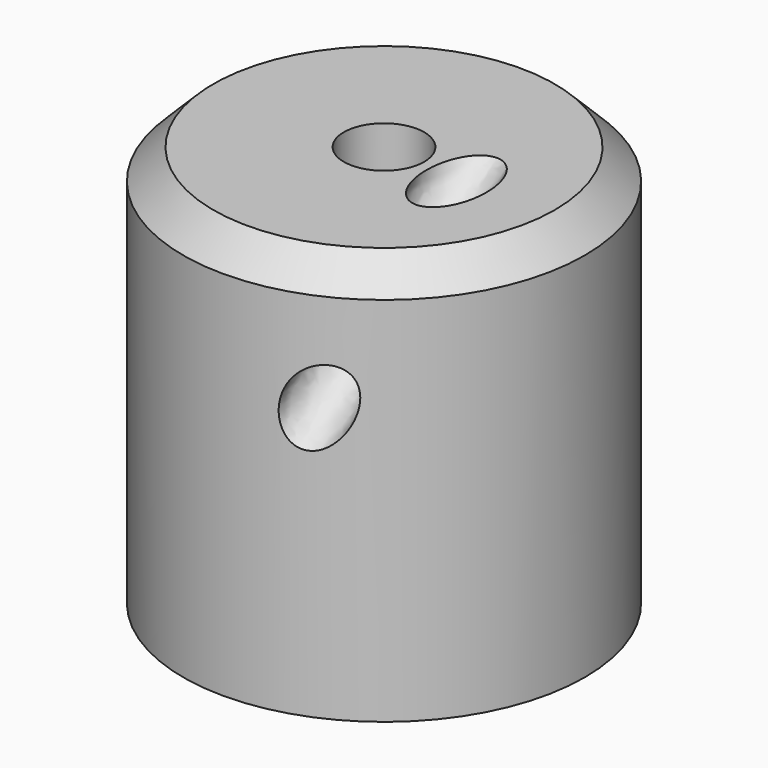
from build123d import *

# Parameters (mm, degrees)
F0_R     = 10
F0_R_2   = 2
F1_DEPTH = 20
F5_R     = 1.5
F7_SIZE  = 1.5


with BuildPart() as f1:
    # F0 (on Top) → F1 (new body)
    with BuildSketch(Plane.XY):
        Circle(F0_R)
        Circle(F0_R_2, mode=Mode.SUBTRACT)
    extrude(amount=F1_DEPTH)

    # F6: sweep along a path in F3
    with BuildLine(Plane.YZ.offset(4)) as f6_path:
        Line((3.480567, 22.941271), (-17.466422, 7.439554))
    # F5 (on face) → F6 (sweep, cut)
    with BuildSketch(Plane(origin=(0, 13.2187, 9.782434), x_dir=(1, 0, 0), z_dir=(0, -0.803825, -0.594866))):
        with Locations((4, 16.370284)):
            Circle(F5_R)
    sweep(path=f6_path.line, mode=Mode.SUBTRACT)

    # F7
    f7_edges = [f1.edges().sort_by_distance(p)[0] for p in [
        (-10, 0, 20),
    ]]
    chamfer(f7_edges, length=F7_SIZE)


solid = f1.part
